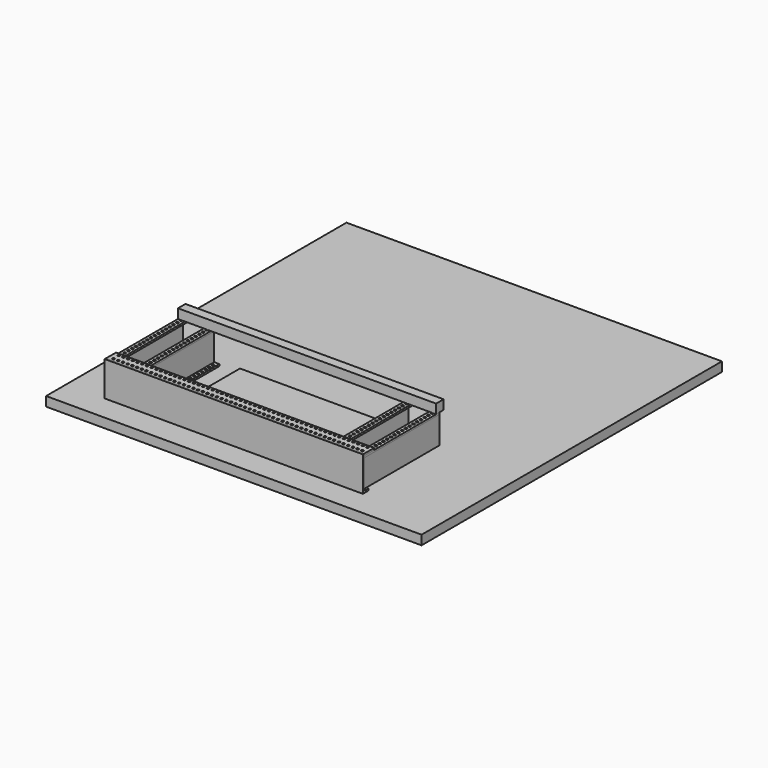
from build123d import *

# Parameters (mm, degrees)
F0_W      = 1016
F0_H      = 1016
F1_DEPTH  = 25.4
F2_W      = 698.5
F2_H      = 88.9
F3_DEPTH  = 5.08
F4_W      = 698.5
F4_H      = 38.1
F4_R      = 3.175
F5_DEPTH  = 5.08
F6_W      = 698.5
F6_H      = 19.05
F6_R      = 3.175
F7_DEPTH  = 5.08
F8_W      = 5.08
F8_H      = 73.66
F9_DEPTH  = 254
F10_W     = 19.05
F10_H     = 254
F10_R     = 3.175
F11_DEPTH = 5.08
F12_W     = 19.05
F12_H     = 254
F12_R     = 3.175
F13_DEPTH = 5.08
F15_W     = 698.5
F15_H     = 25.4
F16_DEPTH = 25.4
F17_W     = 387.35
F17_H     = 254
F18_DEPTH = 12.7


with BuildPart() as f1:
    # F0 (on Top) → F1 (new body)
    with BuildSketch(Plane.XY):
        Rectangle(F0_W, F0_H)
    extrude(amount=F1_DEPTH)


with BuildPart() as f3:
    # F2 (on face) → F3 (new body)
    with BuildSketch(Plane.XZ.offset(508)):
        with Locations((0, 120.65)):
            Rectangle(F2_W, F2_H)
    extrude(amount=-F3_DEPTH)

    # F6 (on face) → F7 (join)
    with BuildSketch(Plane(origin=(0, 0, 76.2), x_dir=(1, 0, 0), z_dir=(0, 0, -1))):
        with Locations((0, 498.475)):
            Rectangle(F6_W, F6_H)
        with Locations((-336.55, 495.935)):
            Circle(F6_R, mode=Mode.SUBTRACT)
        with Locations((-323.85, 495.935)):
            Circle(F6_R, mode=Mode.SUBTRACT)
        with Locations((-311.15, 495.935)):
            Circle(F6_R, mode=Mode.SUBTRACT)
        with Locations((-298.45, 495.935)):
            Circle(F6_R, mode=Mode.SUBTRACT)
        with Locations((-285.75, 495.935)):
            Circle(F6_R, mode=Mode.SUBTRACT)
        with Locations((-273.05, 495.935)):
            Circle(F6_R, mode=Mode.SUBTRACT)
        with Locations((-260.35, 495.935)):
            Circle(F6_R, mode=Mode.SUBTRACT)
        with Locations((-247.65, 495.935)):
            Circle(F6_R, mode=Mode.SUBTRACT)
        with Locations((-234.95, 495.935)):
            Circle(F6_R, mode=Mode.SUBTRACT)
        with Locations((-222.25, 495.935)):
            Circle(F6_R, mode=Mode.SUBTRACT)
        with Locations((-209.55, 495.935)):
            Circle(F6_R, mode=Mode.SUBTRACT)
        with Locations((-196.85, 495.935)):
            Circle(F6_R, mode=Mode.SUBTRACT)
        with Locations((-184.15, 495.935)):
            Circle(F6_R, mode=Mode.SUBTRACT)
        with Locations((-171.45, 495.935)):
            Circle(F6_R, mode=Mode.SUBTRACT)
        with Locations((-158.75, 495.935)):
            Circle(F6_R, mode=Mode.SUBTRACT)
        with Locations((-146.05, 495.935)):
            Circle(F6_R, mode=Mode.SUBTRACT)
        with Locations((-133.35, 495.935)):
            Circle(F6_R, mode=Mode.SUBTRACT)
        with Locations((-120.65, 495.935)):
            Circle(F6_R, mode=Mode.SUBTRACT)
        with Locations((-107.95, 495.935)):
            Circle(F6_R, mode=Mode.SUBTRACT)
        with Locations((-95.25, 495.935)):
            Circle(F6_R, mode=Mode.SUBTRACT)
        with Locations((-82.55, 495.935)):
            Circle(F6_R, mode=Mode.SUBTRACT)
        with Locations((-69.85, 495.935)):
            Circle(F6_R, mode=Mode.SUBTRACT)
        with Locations((-57.15, 495.935)):
            Circle(F6_R, mode=Mode.SUBTRACT)
        with Locations((-44.45, 495.935)):
            Circle(F6_R, mode=Mode.SUBTRACT)
        with Locations((-31.75, 495.935)):
            Circle(F6_R, mode=Mode.SUBTRACT)
        with Locations((-19.05, 495.935)):
            Circle(F6_R, mode=Mode.SUBTRACT)
        with Locations((-6.35, 495.935)):
            Circle(F6_R, mode=Mode.SUBTRACT)
        with Locations((6.35, 495.935)):
            Circle(F6_R, mode=Mode.SUBTRACT)
        with Locations((19.05, 495.935)):
            Circle(F6_R, mode=Mode.SUBTRACT)
        with Locations((31.75, 495.935)):
            Circle(F6_R, mode=Mode.SUBTRACT)
        with Locations((44.45, 495.935)):
            Circle(F6_R, mode=Mode.SUBTRACT)
        with Locations((57.15, 495.935)):
            Circle(F6_R, mode=Mode.SUBTRACT)
        with Locations((69.85, 495.935)):
            Circle(F6_R, mode=Mode.SUBTRACT)
        with Locations((82.55, 495.935)):
            Circle(F6_R, mode=Mode.SUBTRACT)
        with Locations((95.25, 495.935)):
            Circle(F6_R, mode=Mode.SUBTRACT)
        with Locations((107.95, 495.935)):
            Circle(F6_R, mode=Mode.SUBTRACT)
        with Locations((120.65, 495.935)):
            Circle(F6_R, mode=Mode.SUBTRACT)
        with Locations((133.35, 495.935)):
            Circle(F6_R, mode=Mode.SUBTRACT)
        with Locations((146.05, 495.935)):
            Circle(F6_R, mode=Mode.SUBTRACT)
        with Locations((158.75, 495.935)):
            Circle(F6_R, mode=Mode.SUBTRACT)
        with Locations((171.45, 495.935)):
            Circle(F6_R, mode=Mode.SUBTRACT)
        with Locations((184.15, 495.935)):
            Circle(F6_R, mode=Mode.SUBTRACT)
        with Locations((196.85, 495.935)):
            Circle(F6_R, mode=Mode.SUBTRACT)
        with Locations((209.55, 495.935)):
            Circle(F6_R, mode=Mode.SUBTRACT)
        with Locations((222.25, 495.935)):
            Circle(F6_R, mode=Mode.SUBTRACT)
        with Locations((234.95, 495.935)):
            Circle(F6_R, mode=Mode.SUBTRACT)
        with Locations((247.65, 495.935)):
            Circle(F6_R, mode=Mode.SUBTRACT)
        with Locations((260.35, 495.935)):
            Circle(F6_R, mode=Mode.SUBTRACT)
        with Locations((273.05, 495.935)):
            Circle(F6_R, mode=Mode.SUBTRACT)
        with Locations((285.75, 495.935)):
            Circle(F6_R, mode=Mode.SUBTRACT)
        with Locations((298.45, 495.935)):
            Circle(F6_R, mode=Mode.SUBTRACT)
        with Locations((311.15, 495.935)):
            Circle(F6_R, mode=Mode.SUBTRACT)
        with Locations((323.85, 495.935)):
            Circle(F6_R, mode=Mode.SUBTRACT)
        with Locations((336.55, 495.935)):
            Circle(F6_R, mode=Mode.SUBTRACT)
    extrude(amount=F7_DEPTH)

    # F8 (on face) → F9 (join)
    with BuildSketch(Plane(origin=(0, -502.92, 0), x_dir=(-1, 0, 0), z_dir=(0, 1, 0))):
        with Locations((-346.71, 118.11)):
            Rectangle(F8_W, F8_H)
        with Locations((-262.89, 118.11)):
            Rectangle(F8_W, F8_H)
    extrude(amount=F9_DEPTH)

    # F12 (on face) → F13 (join)
    with BuildSketch(Plane(origin=(0, 0, 81.28), x_dir=(1, 0, 0), z_dir=(0, 0, -1))):
        with Locations((255.905, 375.92)):
            Rectangle(F12_W, F12_H)
        with Locations((252.73, 261.62)):
            Circle(F12_R, mode=Mode.SUBTRACT)
        with Locations((252.73, 274.32)):
            Circle(F12_R, mode=Mode.SUBTRACT)
        with Locations((252.73, 287.02)):
            Circle(F12_R, mode=Mode.SUBTRACT)
        with Locations((252.73, 299.72)):
            Circle(F12_R, mode=Mode.SUBTRACT)
        with Locations((252.73, 312.42)):
            Circle(F12_R, mode=Mode.SUBTRACT)
        with Locations((252.73, 325.12)):
            Circle(F12_R, mode=Mode.SUBTRACT)
        with Locations((252.73, 337.82)):
            Circle(F12_R, mode=Mode.SUBTRACT)
        with Locations((252.73, 350.52)):
            Circle(F12_R, mode=Mode.SUBTRACT)
        with Locations((252.73, 363.22)):
            Circle(F12_R, mode=Mode.SUBTRACT)
        with Locations((252.73, 375.92)):
            Circle(F12_R, mode=Mode.SUBTRACT)
        with Locations((252.73, 388.62)):
            Circle(F12_R, mode=Mode.SUBTRACT)
        with Locations((252.73, 401.32)):
            Circle(F12_R, mode=Mode.SUBTRACT)
        with Locations((252.73, 414.02)):
            Circle(F12_R, mode=Mode.SUBTRACT)
        with Locations((252.73, 426.72)):
            Circle(F12_R, mode=Mode.SUBTRACT)
        with Locations((252.73, 439.42)):
            Circle(F12_R, mode=Mode.SUBTRACT)
        with Locations((252.73, 452.12)):
            Circle(F12_R, mode=Mode.SUBTRACT)
        with Locations((252.73, 464.82)):
            Circle(F12_R, mode=Mode.SUBTRACT)
        with Locations((252.73, 477.52)):
            Circle(F12_R, mode=Mode.SUBTRACT)
        with Locations((252.73, 490.22)):
            Circle(F12_R, mode=Mode.SUBTRACT)
    extrude(amount=F13_DEPTH)


with BuildPart() as f5:
    # F4 (on face) → F5 (new body)
    with BuildSketch(Plane.XY.offset(165.1)):
        with Locations((0, -488.95)):
            Rectangle(F4_W, F4_H)
        with Locations((-335.431345, -495.267127)):
            Circle(F4_R, mode=Mode.SUBTRACT)
        with Locations((-322.731345, -495.267127)):
            Circle(F4_R, mode=Mode.SUBTRACT)
        with Locations((-310.031345, -495.267127)):
            Circle(F4_R, mode=Mode.SUBTRACT)
        with Locations((-297.331345, -495.267127)):
            Circle(F4_R, mode=Mode.SUBTRACT)
        with Locations((-284.631345, -495.267127)):
            Circle(F4_R, mode=Mode.SUBTRACT)
        with Locations((-271.931345, -495.267127)):
            Circle(F4_R, mode=Mode.SUBTRACT)
        with Locations((-259.231345, -495.267127)):
            Circle(F4_R, mode=Mode.SUBTRACT)
        with Locations((-246.531345, -495.267127)):
            Circle(F4_R, mode=Mode.SUBTRACT)
        with Locations((-233.831345, -495.267127)):
            Circle(F4_R, mode=Mode.SUBTRACT)
        with Locations((-221.131345, -495.267127)):
            Circle(F4_R, mode=Mode.SUBTRACT)
        with Locations((-208.431345, -495.267127)):
            Circle(F4_R, mode=Mode.SUBTRACT)
        with Locations((-195.731345, -495.267127)):
            Circle(F4_R, mode=Mode.SUBTRACT)
        with Locations((-183.031345, -495.267127)):
            Circle(F4_R, mode=Mode.SUBTRACT)
        with Locations((-170.331345, -495.267127)):
            Circle(F4_R, mode=Mode.SUBTRACT)
        with Locations((-157.631345, -495.267127)):
            Circle(F4_R, mode=Mode.SUBTRACT)
        with Locations((-144.931345, -495.267127)):
            Circle(F4_R, mode=Mode.SUBTRACT)
        with Locations((-132.231345, -495.267127)):
            Circle(F4_R, mode=Mode.SUBTRACT)
        with Locations((-119.531345, -495.267127)):
            Circle(F4_R, mode=Mode.SUBTRACT)
        with Locations((-106.831345, -495.267127)):
            Circle(F4_R, mode=Mode.SUBTRACT)
        with Locations((-94.131345, -495.267127)):
            Circle(F4_R, mode=Mode.SUBTRACT)
        with Locations((-81.431345, -495.267127)):
            Circle(F4_R, mode=Mode.SUBTRACT)
        with Locations((-68.731345, -495.267127)):
            Circle(F4_R, mode=Mode.SUBTRACT)
        with Locations((-56.031345, -495.267127)):
            Circle(F4_R, mode=Mode.SUBTRACT)
        with Locations((-43.331345, -495.267127)):
            Circle(F4_R, mode=Mode.SUBTRACT)
        with Locations((-30.631345, -495.267127)):
            Circle(F4_R, mode=Mode.SUBTRACT)
        with Locations((-17.931345, -495.267127)):
            Circle(F4_R, mode=Mode.SUBTRACT)
        with Locations((-5.231345, -495.267127)):
            Circle(F4_R, mode=Mode.SUBTRACT)
        with Locations((7.468655, -495.267127)):
            Circle(F4_R, mode=Mode.SUBTRACT)
        with Locations((20.168655, -495.267127)):
            Circle(F4_R, mode=Mode.SUBTRACT)
        with Locations((32.868655, -495.267127)):
            Circle(F4_R, mode=Mode.SUBTRACT)
        with Locations((45.568655, -495.267127)):
            Circle(F4_R, mode=Mode.SUBTRACT)
        with Locations((58.268655, -495.267127)):
            Circle(F4_R, mode=Mode.SUBTRACT)
        with Locations((70.968655, -495.267127)):
            Circle(F4_R, mode=Mode.SUBTRACT)
        with Locations((83.668655, -495.267127)):
            Circle(F4_R, mode=Mode.SUBTRACT)
        with Locations((96.368655, -495.267127)):
            Circle(F4_R, mode=Mode.SUBTRACT)
        with Locations((109.068655, -495.267127)):
            Circle(F4_R, mode=Mode.SUBTRACT)
        with Locations((121.768655, -495.267127)):
            Circle(F4_R, mode=Mode.SUBTRACT)
        with Locations((134.468655, -495.267127)):
            Circle(F4_R, mode=Mode.SUBTRACT)
        with Locations((147.168655, -495.267127)):
            Circle(F4_R, mode=Mode.SUBTRACT)
        with Locations((159.868655, -495.267127)):
            Circle(F4_R, mode=Mode.SUBTRACT)
        with Locations((172.568655, -495.267127)):
            Circle(F4_R, mode=Mode.SUBTRACT)
        with Locations((185.268655, -495.267127)):
            Circle(F4_R, mode=Mode.SUBTRACT)
        with Locations((197.968655, -495.267127)):
            Circle(F4_R, mode=Mode.SUBTRACT)
        with Locations((210.668655, -495.267127)):
            Circle(F4_R, mode=Mode.SUBTRACT)
        with Locations((223.368655, -495.267127)):
            Circle(F4_R, mode=Mode.SUBTRACT)
        with Locations((236.068655, -495.267127)):
            Circle(F4_R, mode=Mode.SUBTRACT)
        with Locations((248.768655, -495.267127)):
            Circle(F4_R, mode=Mode.SUBTRACT)
        with Locations((261.468655, -495.267127)):
            Circle(F4_R, mode=Mode.SUBTRACT)
        with Locations((274.168655, -495.267127)):
            Circle(F4_R, mode=Mode.SUBTRACT)
        with Locations((286.868655, -495.267127)):
            Circle(F4_R, mode=Mode.SUBTRACT)
        with Locations((299.568655, -495.267127)):
            Circle(F4_R, mode=Mode.SUBTRACT)
        with Locations((312.268655, -495.267127)):
            Circle(F4_R, mode=Mode.SUBTRACT)
        with Locations((324.968655, -495.267127)):
            Circle(F4_R, mode=Mode.SUBTRACT)
        with Locations((337.668655, -495.267127)):
            Circle(F4_R, mode=Mode.SUBTRACT)
        with Locations((-336.55, -476.25)):
            Circle(F4_R, mode=Mode.SUBTRACT)
        with Locations((-323.85, -476.25)):
            Circle(F4_R, mode=Mode.SUBTRACT)
        with Locations((-311.15, -476.25)):
            Circle(F4_R, mode=Mode.SUBTRACT)
        with Locations((-298.45, -476.25)):
            Circle(F4_R, mode=Mode.SUBTRACT)
        with Locations((-285.75, -476.25)):
            Circle(F4_R, mode=Mode.SUBTRACT)
        with Locations((-273.05, -476.25)):
            Circle(F4_R, mode=Mode.SUBTRACT)
        with Locations((-260.35, -476.25)):
            Circle(F4_R, mode=Mode.SUBTRACT)
        with Locations((-247.65, -476.25)):
            Circle(F4_R, mode=Mode.SUBTRACT)
        with Locations((-234.95, -476.25)):
            Circle(F4_R, mode=Mode.SUBTRACT)
        with Locations((-222.25, -476.25)):
            Circle(F4_R, mode=Mode.SUBTRACT)
        with Locations((-209.55, -476.25)):
            Circle(F4_R, mode=Mode.SUBTRACT)
        with Locations((-196.85, -476.25)):
            Circle(F4_R, mode=Mode.SUBTRACT)
        with Locations((-184.15, -476.25)):
            Circle(F4_R, mode=Mode.SUBTRACT)
        with Locations((-171.45, -476.25)):
            Circle(F4_R, mode=Mode.SUBTRACT)
        with Locations((-158.75, -476.25)):
            Circle(F4_R, mode=Mode.SUBTRACT)
        with Locations((-146.05, -476.25)):
            Circle(F4_R, mode=Mode.SUBTRACT)
        with Locations((-133.35, -476.25)):
            Circle(F4_R, mode=Mode.SUBTRACT)
        with Locations((-120.65, -476.25)):
            Circle(F4_R, mode=Mode.SUBTRACT)
        with Locations((-107.95, -476.25)):
            Circle(F4_R, mode=Mode.SUBTRACT)
        with Locations((-95.25, -476.25)):
            Circle(F4_R, mode=Mode.SUBTRACT)
        with Locations((-82.55, -476.25)):
            Circle(F4_R, mode=Mode.SUBTRACT)
        with Locations((-69.85, -476.25)):
            Circle(F4_R, mode=Mode.SUBTRACT)
        with Locations((-57.15, -476.25)):
            Circle(F4_R, mode=Mode.SUBTRACT)
        with Locations((-44.45, -476.25)):
            Circle(F4_R, mode=Mode.SUBTRACT)
        with Locations((-31.75, -476.25)):
            Circle(F4_R, mode=Mode.SUBTRACT)
        with Locations((-19.05, -476.25)):
            Circle(F4_R, mode=Mode.SUBTRACT)
        with Locations((-6.35, -476.25)):
            Circle(F4_R, mode=Mode.SUBTRACT)
        with Locations((6.35, -476.25)):
            Circle(F4_R, mode=Mode.SUBTRACT)
        with Locations((19.05, -476.25)):
            Circle(F4_R, mode=Mode.SUBTRACT)
        with Locations((31.75, -476.25)):
            Circle(F4_R, mode=Mode.SUBTRACT)
        with Locations((44.45, -476.25)):
            Circle(F4_R, mode=Mode.SUBTRACT)
        with Locations((57.15, -476.25)):
            Circle(F4_R, mode=Mode.SUBTRACT)
        with Locations((69.85, -476.25)):
            Circle(F4_R, mode=Mode.SUBTRACT)
        with Locations((82.55, -476.25)):
            Circle(F4_R, mode=Mode.SUBTRACT)
        with Locations((95.25, -476.25)):
            Circle(F4_R, mode=Mode.SUBTRACT)
        with Locations((107.95, -476.25)):
            Circle(F4_R, mode=Mode.SUBTRACT)
        with Locations((120.65, -476.25)):
            Circle(F4_R, mode=Mode.SUBTRACT)
        with Locations((133.35, -476.25)):
            Circle(F4_R, mode=Mode.SUBTRACT)
        with Locations((146.05, -476.25)):
            Circle(F4_R, mode=Mode.SUBTRACT)
        with Locations((158.75, -476.25)):
            Circle(F4_R, mode=Mode.SUBTRACT)
        with Locations((171.45, -476.25)):
            Circle(F4_R, mode=Mode.SUBTRACT)
        with Locations((184.15, -476.25)):
            Circle(F4_R, mode=Mode.SUBTRACT)
        with Locations((196.85, -476.25)):
            Circle(F4_R, mode=Mode.SUBTRACT)
        with Locations((209.55, -476.25)):
            Circle(F4_R, mode=Mode.SUBTRACT)
        with Locations((222.25, -476.25)):
            Circle(F4_R, mode=Mode.SUBTRACT)
        with Locations((234.95, -476.25)):
            Circle(F4_R, mode=Mode.SUBTRACT)
        with Locations((247.65, -476.25)):
            Circle(F4_R, mode=Mode.SUBTRACT)
        with Locations((260.35, -476.25)):
            Circle(F4_R, mode=Mode.SUBTRACT)
        with Locations((273.05, -476.25)):
            Circle(F4_R, mode=Mode.SUBTRACT)
        with Locations((285.75, -476.25)):
            Circle(F4_R, mode=Mode.SUBTRACT)
        with Locations((298.45, -476.25)):
            Circle(F4_R, mode=Mode.SUBTRACT)
        with Locations((311.15, -476.25)):
            Circle(F4_R, mode=Mode.SUBTRACT)
        with Locations((323.85, -476.25)):
            Circle(F4_R, mode=Mode.SUBTRACT)
        with Locations((336.55, -476.25)):
            Circle(F4_R, mode=Mode.SUBTRACT)
    extrude(amount=-F5_DEPTH)


with BuildPart() as f11:
    # F10 (on face) → F11 (new body)
    with BuildSketch(Plane.XY.offset(154.94)):
        with Locations((339.725, -375.92)):
            Rectangle(F10_W, F10_H)
        with Locations((339.725, -490.22)):
            Circle(F10_R, mode=Mode.SUBTRACT)
        with Locations((339.725, -477.52)):
            Circle(F10_R, mode=Mode.SUBTRACT)
        with Locations((339.725, -464.82)):
            Circle(F10_R, mode=Mode.SUBTRACT)
        with Locations((339.725, -452.12)):
            Circle(F10_R, mode=Mode.SUBTRACT)
        with Locations((339.725, -439.42)):
            Circle(F10_R, mode=Mode.SUBTRACT)
        with Locations((339.725, -426.72)):
            Circle(F10_R, mode=Mode.SUBTRACT)
        with Locations((339.725, -414.02)):
            Circle(F10_R, mode=Mode.SUBTRACT)
        with Locations((339.725, -401.32)):
            Circle(F10_R, mode=Mode.SUBTRACT)
        with Locations((339.725, -388.62)):
            Circle(F10_R, mode=Mode.SUBTRACT)
        with Locations((339.725, -375.92)):
            Circle(F10_R, mode=Mode.SUBTRACT)
        with Locations((339.725, -363.22)):
            Circle(F10_R, mode=Mode.SUBTRACT)
        with Locations((339.725, -350.52)):
            Circle(F10_R, mode=Mode.SUBTRACT)
        with Locations((339.725, -337.82)):
            Circle(F10_R, mode=Mode.SUBTRACT)
        with Locations((339.725, -325.12)):
            Circle(F10_R, mode=Mode.SUBTRACT)
        with Locations((339.725, -312.42)):
            Circle(F10_R, mode=Mode.SUBTRACT)
        with Locations((339.725, -299.72)):
            Circle(F10_R, mode=Mode.SUBTRACT)
        with Locations((339.725, -287.02)):
            Circle(F10_R, mode=Mode.SUBTRACT)
        with Locations((339.725, -274.32)):
            Circle(F10_R, mode=Mode.SUBTRACT)
        with Locations((339.725, -261.62)):
            Circle(F10_R, mode=Mode.SUBTRACT)
        with Locations((269.875, -375.92)):
            Rectangle(F10_W, F10_H)
        with Locations((269.875, -490.22)):
            Circle(F10_R, mode=Mode.SUBTRACT)
        with Locations((269.875, -477.52)):
            Circle(F10_R, mode=Mode.SUBTRACT)
        with Locations((269.875, -464.82)):
            Circle(F10_R, mode=Mode.SUBTRACT)
        with Locations((269.875, -452.12)):
            Circle(F10_R, mode=Mode.SUBTRACT)
        with Locations((269.875, -439.42)):
            Circle(F10_R, mode=Mode.SUBTRACT)
        with Locations((269.875, -426.72)):
            Circle(F10_R, mode=Mode.SUBTRACT)
        with Locations((269.875, -414.02)):
            Circle(F10_R, mode=Mode.SUBTRACT)
        with Locations((269.875, -401.32)):
            Circle(F10_R, mode=Mode.SUBTRACT)
        with Locations((269.875, -388.62)):
            Circle(F10_R, mode=Mode.SUBTRACT)
        with Locations((269.875, -375.92)):
            Circle(F10_R, mode=Mode.SUBTRACT)
        with Locations((269.875, -363.22)):
            Circle(F10_R, mode=Mode.SUBTRACT)
        with Locations((269.875, -350.52)):
            Circle(F10_R, mode=Mode.SUBTRACT)
        with Locations((269.875, -337.82)):
            Circle(F10_R, mode=Mode.SUBTRACT)
        with Locations((269.875, -325.12)):
            Circle(F10_R, mode=Mode.SUBTRACT)
        with Locations((269.875, -312.42)):
            Circle(F10_R, mode=Mode.SUBTRACT)
        with Locations((269.875, -299.72)):
            Circle(F10_R, mode=Mode.SUBTRACT)
        with Locations((269.875, -287.02)):
            Circle(F10_R, mode=Mode.SUBTRACT)
        with Locations((269.875, -274.32)):
            Circle(F10_R, mode=Mode.SUBTRACT)
        with Locations((269.875, -261.62)):
            Circle(F10_R, mode=Mode.SUBTRACT)
    extrude(amount=F11_DEPTH)


with BuildPart() as f14_1:
    # F14: instance of F3
    add(f3.part.mirror(Plane.YZ))


with BuildPart() as f14_2:
    # F14: instance of F11
    add(f11.part.mirror(Plane.YZ))


with BuildPart() as f16:
    # F15 (on face) → F16 (new body)
    with BuildSketch(Plane.XY.offset(160.02)):
        with Locations((0, -247.65)):
            Rectangle(F15_W, F15_H)
    extrude(amount=F16_DEPTH)


with BuildPart() as f18:
    # F17 (on face) → F18 (new body)
    with BuildSketch(Plane.XY.offset(76.2)):
        with Locations((3.175, -375.92)):
            Rectangle(F17_W, F17_H)
    extrude(amount=F18_DEPTH)


solid = Compound([f1.part, f3.part, f5.part, f11.part, f14_1.part, f14_2.part, f16.part, f18.part])
